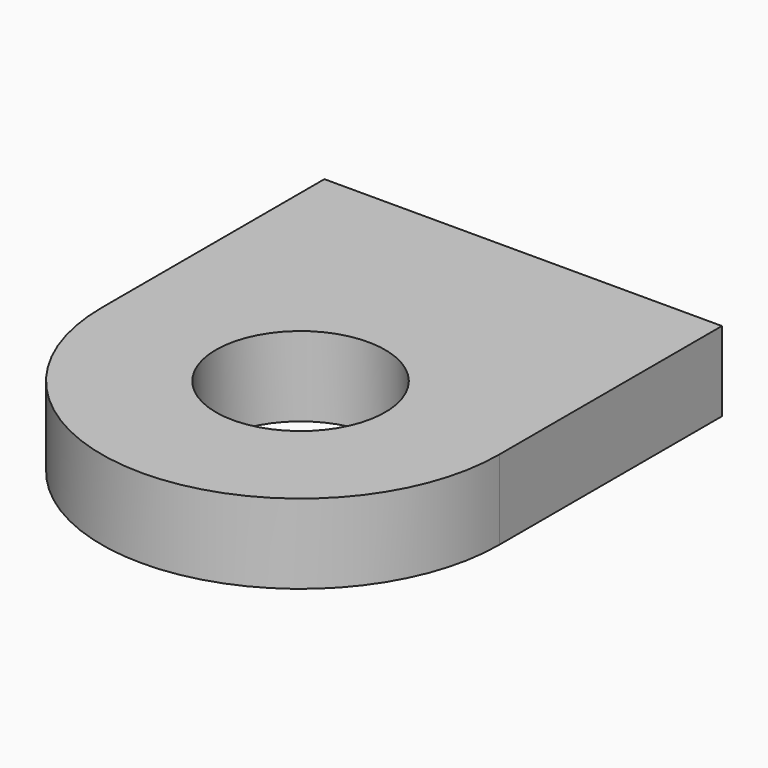
from build123d import *

# Parameters (mm, degrees)
F0_R     = 3.571875
F1_DEPTH = 3.175
F2_D     = 6.7564


with BuildPart() as f1:
    # F0 (on Top) → F1 (new body)
    with BuildSketch(Plane.XY):
        with BuildLine():
            Line((7.9375, -1.5875), (7.9375, 9.525))
            Line((7.9375, 9.525), (-7.9375, 9.525))
            Line((-7.9375, 9.525), (-7.9375, -1.5875))
            ThreePointArc((-7.9375, -1.5875), (0, -9.525), (7.9375, -1.5875))
        make_face()
        with Locations((0, -1.5875)):
            Circle(F0_R, mode=Mode.SUBTRACT)
        with Locations((0, -1.5875)):
            Circle(F0_R)
    extrude(amount=-F1_DEPTH)

    # F2 (through all)
    with Locations(Plane.XY):
        with Locations((0, -1.5875)):
            Hole(F2_D / 2)


solid = f1.part
